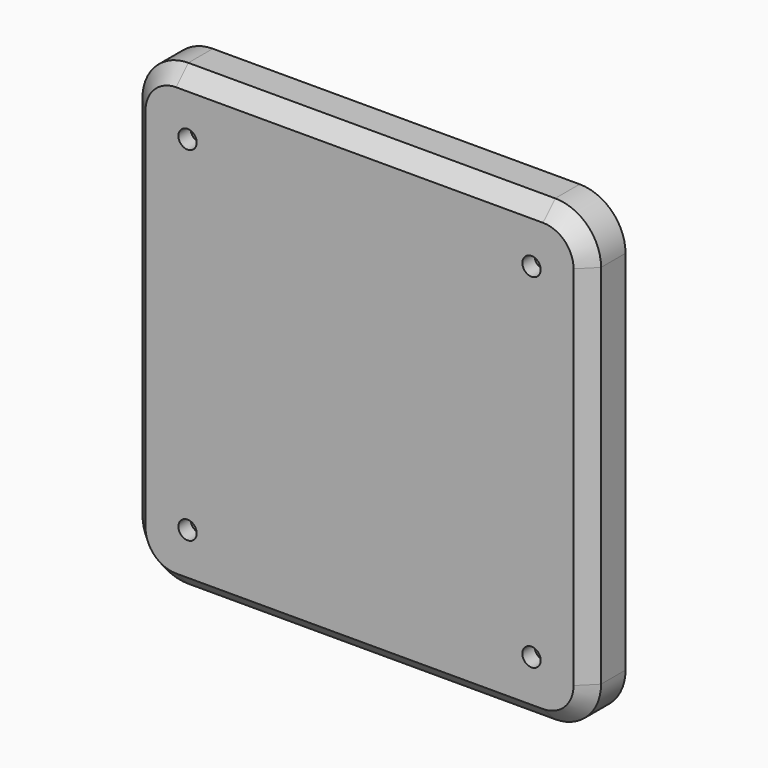
from build123d import *

# Parameters (mm, degrees)
F0_W     = 300
F0_H     = 300
F1_DEPTH = 30
F2_R     = 30
F5_SIZE  = 10
F3_R     = 6
F4_R     = 6
F6_DEPTH = 10
F7_DEPTH = 10


with BuildPart() as f1:
    # F0 (on Front) → F1 (new body)
    with BuildSketch(Plane.XZ):
        with Locations((-150, 150)):
            Rectangle(F0_W, F0_H)
    extrude(amount=F1_DEPTH)

    # F2
    f2_edges = [f1.edges().sort_by_distance(p)[0] for p in [
        (-300, -15, 0),
        (0, -15, 0),
        (0, -15, 300),
        (-300, -15, 300),
    ]]
    fillet(f2_edges, radius=F2_R)

    # F5
    f5_edges = [f1.edges().sort_by_distance(p)[0] for p in [
        (-300, -30, 150),
    ]]
    chamfer(f5_edges, length=F5_SIZE)

    # F3 (on face) + F4 (on face) → F6 (cut)
    with BuildSketch(Plane.XZ.offset(30)):
        with Locations((-262.5, 262.5)):
            Circle(F3_R)
        with Locations((-262.5, 37.5)):
            Circle(F3_R)
        with Locations((-37.5, 37.5)):
            Circle(F3_R)
        with Locations((-37.5, 262.5)):
            Circle(F3_R)
    with BuildSketch(Plane(origin=(0, 0, 0), x_dir=(-1, 0, 0), z_dir=(0, 1, 0))):
        with Locations((30, 270)):
            Circle(F4_R)
        with Locations((270, 270)):
            Circle(F4_R)
        with Locations((270, 30)):
            Circle(F4_R)
        with Locations((30, 30)):
            Circle(F4_R)
    extrude(amount=-F6_DEPTH, mode=Mode.SUBTRACT)

    # F4 (on face) → F7 (cut)
    with BuildSketch(Plane(origin=(0, 0, 0), x_dir=(-1, 0, 0), z_dir=(0, 1, 0))):
        with Locations((30, 270)):
            Circle(F4_R)
        with Locations((270, 270)):
            Circle(F4_R)
        with Locations((270, 30)):
            Circle(F4_R)
        with Locations((30, 30)):
            Circle(F4_R)
    extrude(amount=-F7_DEPTH, mode=Mode.SUBTRACT)


solid = f1.part
